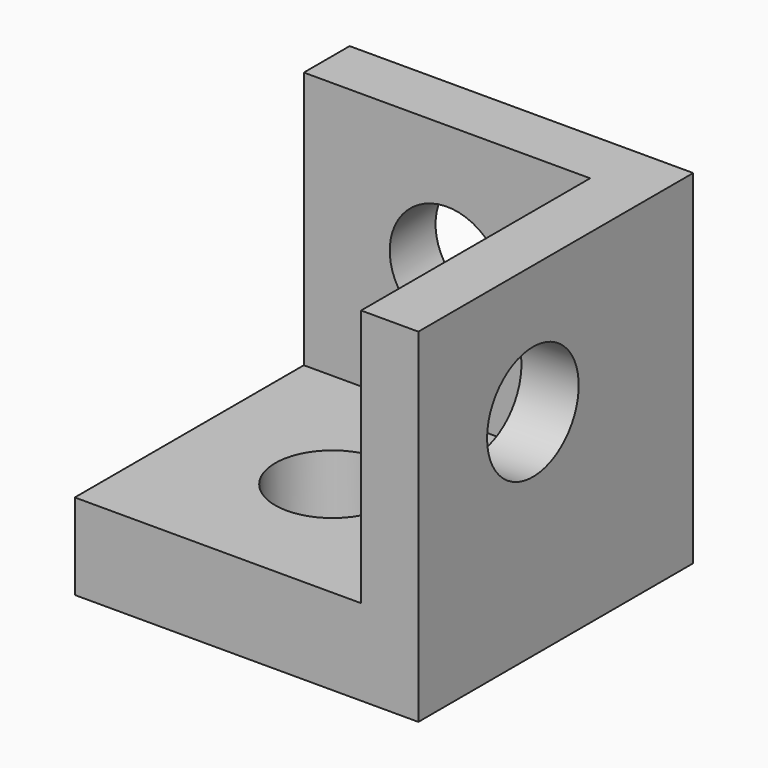
from build123d import *

# Parameters (mm, degrees)
F0_W     = 76.2
F0_H     = 76.2
F1_DEPTH = 76.2
F2_W     = 63.5
F2_H     = 57.15
F3_DEPTH = 63.5
F5_R     = 12.7
F7_DEPTH = 25.4
F6_R     = 12.7
F8_DEPTH = 25.4
F4_R     = 12.7
F9_DEPTH = 25.4


with BuildPart() as f1:
    # F0 (on Front) → F1 (new body)
    with BuildSketch(Plane.XZ):
        with Locations((-6.020044, 16.377596)):
            Rectangle(F0_W, F0_H)
    extrude(amount=F1_DEPTH)

    # F2 (on face) → F3 (cut)
    with BuildSketch(Plane.XZ.offset(76.2)):
        with Locations((-12.370044, 25.902596)):
            Rectangle(F2_W, F2_H)
    extrude(amount=-F3_DEPTH, mode=Mode.SUBTRACT)

    # F5 (on face) → F7 (cut)
    with BuildSketch(Plane(origin=(19.379956, 0, 0), x_dir=(0, -1, 0), z_dir=(-1, 0, 0))):
        with Locations((44.45, 25.902596)):
            Circle(F5_R)
    extrude(amount=-F7_DEPTH, mode=Mode.SUBTRACT)

    # F6 (on face) → F8 (cut)
    with BuildSketch(Plane.XZ.offset(12.7)):
        with Locations((-12.370044, 25.902596)):
            Circle(F6_R)
    extrude(amount=-F8_DEPTH, mode=Mode.SUBTRACT)

    # F4 (on face) → F9 (cut)
    with BuildSketch(Plane.XY.offset(-2.672404)):
        with Locations((-12.370044, -44.45)):
            Circle(F4_R)
    extrude(amount=-F9_DEPTH, mode=Mode.SUBTRACT)


solid = f1.part
